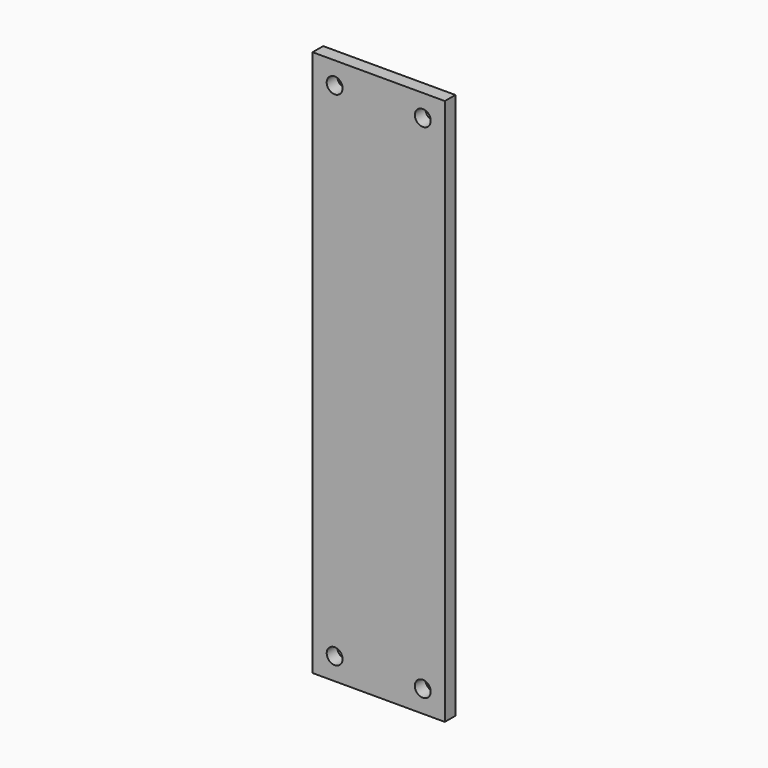
from build123d import *

# Parameters (mm, degrees)
CYLINDER038_R       = 1.8
CYLINDER038_DEPTH   = 10
ARRAY001019_X_COUNT = 2
ARRAY001019_X_PITCH = 20
ARRAY001019_Z_COUNT = 2
ARRAY001019_Z_PITCH = 114
BOX018_W            = 30
BOX018_H            = 3
BOX018_DEPTH        = 124


with BuildPart() as side_connector_hole_array:
    # Cylinder038 → Cylinder038 (new body)
    with BuildSketch(Plane.XZ):
        Circle(CYLINDER038_R)
    extrude(amount=CYLINDER038_DEPTH)

    # Array001019 X: side connector hole array ×2


with BuildPart() as side_connector_hole_array_1:
    add(side_connector_hole_array.part)
    with Locations(*[(i * ARRAY001019_X_PITCH, 0, 0) for i in range(1, ARRAY001019_X_COUNT)]):
        add(side_connector_hole_array.part)

    # Array001019 Z: side connector hole array ×2


with BuildPart() as side_connector_hole_array_2:
    add(side_connector_hole_array_1.part)
    with Locations(*[(0, 0, i * ARRAY001019_Z_PITCH) for i in range(1, ARRAY001019_Z_COUNT)]):
        add(side_connector_hole_array_1.part)


with BuildPart() as side_connector_hole_array_3:
    # Array001019 placement: moved
    add(side_connector_hole_array_2.part.moved(Location((5, 5, 5))))


with BuildPart() as vertical_side_connector_clone:
    # Box018 → Box018 (new body)
    with BuildSketch(Plane.XY):
        with Locations((15, 1.5)):
            Rectangle(BOX018_W, BOX018_H)
    extrude(amount=BOX018_DEPTH)

    # Cut014: cut side connector hole array
    add(side_connector_hole_array_3.part, mode=Mode.SUBTRACT)


with BuildPart() as vertical_side_connector_clone_1:
    # Compound001 placement: moved
    add(vertical_side_connector_clone.part.moved(Location((0, -5, -36))))


with BuildPart() as vertical_side_connector_clone_2:
    # Clone004 placement: moved
    add(vertical_side_connector_clone_1.part.moved(Location((0, 0, 2))))


with BuildPart() as vertical_side_connector_clone_3:
    # Body004 placement: moved
    add(vertical_side_connector_clone_2.part.moved(Location((90, -7, 0))))


solid = vertical_side_connector_clone_3.part
